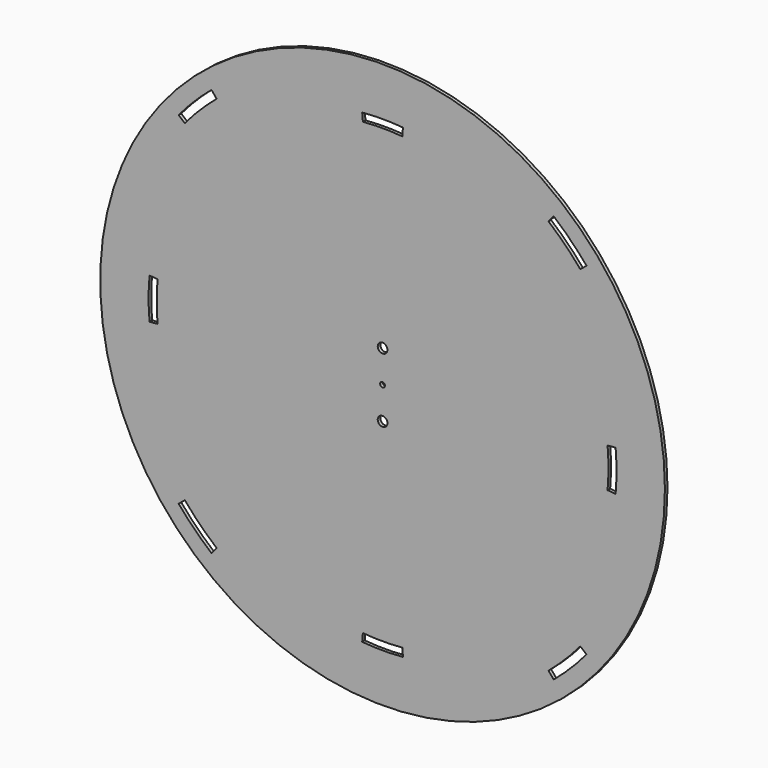
from build123d import *

# Parameters (mm, degrees)
F0_R     = 87.5
F0_R_2   = 1.5
F0_R_3   = 0.75
F1_DEPTH = 1


with BuildPart() as f1:
    # F0 (on Front) → F1 (new body)
    with BuildSketch(Plane.XZ):
        Circle(F0_R)
        with BuildLine():
            ThreePointArc((-53.029978, -63.198667), (-58.336309, -58.336309), (-63.198667, -53.029978))
            Line((-63.198667, -53.029978), (-61.283555, -51.423009))
            ThreePointArc((-61.283555, -51.423009), (-56.568542, -56.568542), (-51.423009, -61.283555))
            Line((-51.423009, -61.283555), (-53.029978, -63.198667))
        make_face(mode=Mode.SUBTRACT)
        with BuildLine():
            ThreePointArc((-72.224116, -6.318791), (-72.5, 0), (-72.224116, 6.318791))
            Line((-72.224116, 6.318791), (-69.733629, 6.100902))
            ThreePointArc((-69.733629, 6.100902), (-70, 0), (-69.733629, -6.100902))
            Line((-69.733629, -6.100902), (-72.224116, -6.318791))
        make_face(mode=Mode.SUBTRACT)
        with BuildLine():
            Line((-6.318791, -72.224116), (-6.100902, -69.733629))
            ThreePointArc((-6.100902, -69.733629), (0, -70), (6.100902, -69.733629))
            Line((6.100902, -69.733629), (6.318791, -72.224116))
            ThreePointArc((6.318791, -72.224116), (0, -72.5), (-6.318791, -72.224116))
        make_face(mode=Mode.SUBTRACT)
        with BuildLine():
            Line((53.029978, -63.198667), (51.423009, -61.283555))
            ThreePointArc((51.423009, -61.283555), (56.568542, -56.568542), (61.283555, -51.423009))
            Line((61.283555, -51.423009), (63.198667, -53.029978))
            ThreePointArc((63.198667, -53.029978), (58.336309, -58.336309), (53.029978, -63.198667))
        make_face(mode=Mode.SUBTRACT)
        with Locations((0, -10)):
            Circle(F0_R_2, mode=Mode.SUBTRACT)
        with BuildLine():
            ThreePointArc((-63.198667, 53.029978), (-58.336309, 58.336309), (-53.029978, 63.198667))
            Line((-53.029978, 63.198667), (-51.423009, 61.283555))
            ThreePointArc((-51.423009, 61.283555), (-56.568542, 56.568542), (-61.283555, 51.423009))
            Line((-61.283555, 51.423009), (-63.198667, 53.029978))
        make_face(mode=Mode.SUBTRACT)
        with BuildLine():
            ThreePointArc((-6.318791, 72.224116), (0, 72.5), (6.318791, 72.224116))
            Line((6.318791, 72.224116), (6.100902, 69.733629))
            ThreePointArc((6.100902, 69.733629), (0, 70), (-6.100902, 69.733629))
            Line((-6.100902, 69.733629), (-6.318791, 72.224116))
        make_face(mode=Mode.SUBTRACT)
        Circle(F0_R_3, mode=Mode.SUBTRACT)
        with Locations((0, 10)):
            Circle(F0_R_2, mode=Mode.SUBTRACT)
        with BuildLine():
            ThreePointArc((72.224116, 6.318791), (72.5, 0), (72.224116, -6.318791))
            Line((72.224116, -6.318791), (69.733629, -6.100902))
            ThreePointArc((69.733629, -6.100902), (70, 0), (69.733629, 6.100902))
            Line((69.733629, 6.100902), (72.224116, 6.318791))
        make_face(mode=Mode.SUBTRACT)
        with BuildLine():
            ThreePointArc((53.029978, 63.198667), (58.336309, 58.336309), (63.198667, 53.029978))
            Line((63.198667, 53.029978), (61.283555, 51.423009))
            ThreePointArc((61.283555, 51.423009), (56.568542, 56.568542), (51.423009, 61.283555))
            Line((51.423009, 61.283555), (53.029978, 63.198667))
        make_face(mode=Mode.SUBTRACT)
    extrude(amount=F1_DEPTH)


solid = f1.part
